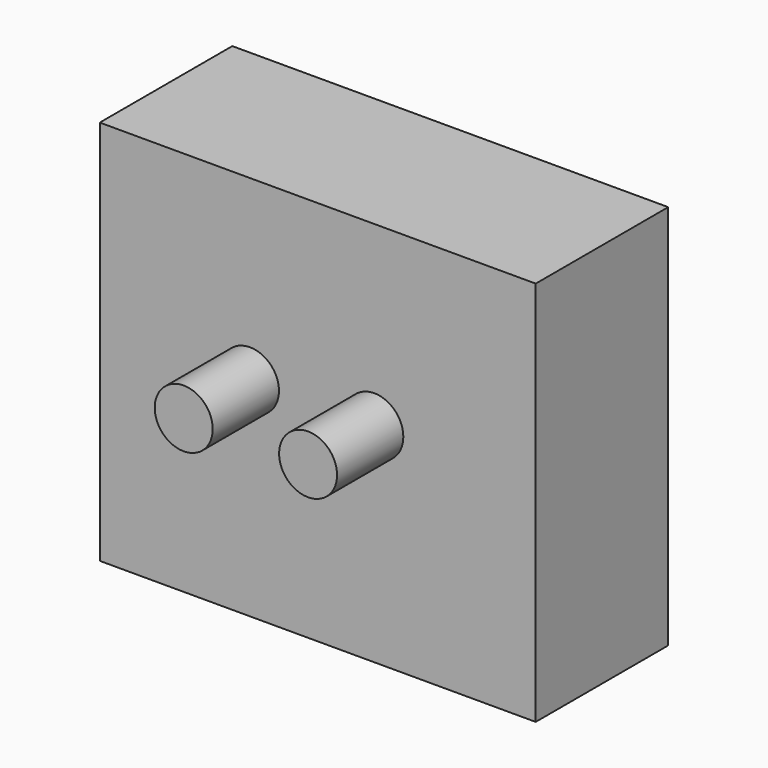
from build123d import *

# Parameters (mm, degrees)
F1_R     = 8.89
F2_DEPTH = 50.8
F0_W     = 133.7045803666
F0_H     = 118.3452904224
F3_DEPTH = 25.4
F4_DEPTH = 76.2


with BuildPart() as f2:
    # F1 (on face) → F2 (new body)
    with BuildSketch(Plane.XZ):
        with Locations((-19.05, 0)):
            Circle(F1_R)
    extrude(amount=F2_DEPTH)


with BuildPart() as f2b:
    # F1 (on face) → F2, piece 2 (new body)
    with BuildSketch(Plane.XZ):
        with Locations((19.0921034532, 0)):
            Circle(F1_R)
    extrude(amount=F2_DEPTH)


with BuildPart() as f2c:
    # F0 (on Front) → F2, piece 3 (new body)
    with BuildSketch(Plane.XZ):
        with Locations((1.7349161208, -4.6034231782)):
            Rectangle(F0_W, F0_H)
    extrude(amount=F2_DEPTH)


with BuildPart() as f3:
    # F1 (on face) → F3 (new body)
    with BuildSketch(Plane.XZ):
        with Locations((-19.05, 0)):
            Circle(F1_R)
    extrude(amount=F3_DEPTH)


with BuildPart() as f3b:
    # F1 (on face) → F3, piece 2 (new body)
    with BuildSketch(Plane.XZ):
        with Locations((19.0921034532, 0)):
            Circle(F1_R)
    extrude(amount=F3_DEPTH)


with BuildPart() as f4:
    # F1 (on face) → F4 (new body)
    with BuildSketch(Plane.XZ):
        with Locations((-19.05, 0)):
            Circle(F1_R)
    extrude(amount=F4_DEPTH)


with BuildPart() as f4b:
    # F1 (on face) → F4, piece 2 (new body)
    with BuildSketch(Plane.XZ):
        with Locations((19.0921034532, 0)):
            Circle(F1_R)
    extrude(amount=F4_DEPTH)


solid = Compound([f2.part, f2b.part, f2c.part, f3.part, f3b.part, f4.part, f4b.part])
